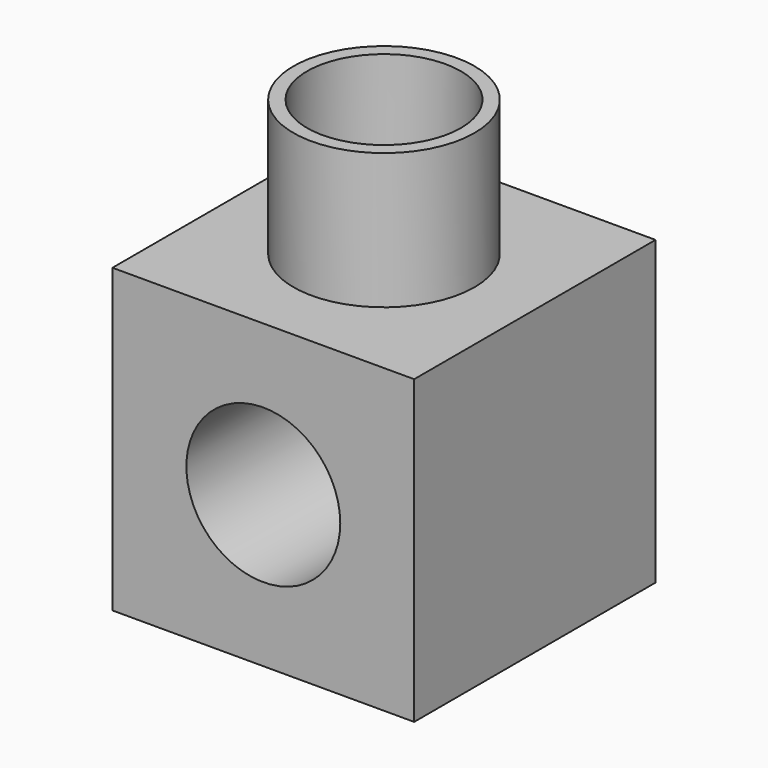
from build123d import *

# Parameters (mm, degrees)
F0_W     = 100
F0_H     = 100
F0_R     = 25.5
F1_DEPTH = 50
F2_R     = 30
F2_R_2   = 25.5
F3_DEPTH = 45


with BuildPart() as f1:
    # F0 (on Front) → F1 (new body, symmetric)
    with BuildSketch(Plane.XZ):
        Rectangle(F0_W, F0_H)
        Circle(F0_R, mode=Mode.SUBTRACT)
    extrude(amount=F1_DEPTH, both=True)

    # F2 (on face) → F3 (join)
    with BuildSketch(Plane.XY.offset(50)):
        Circle(F2_R)
        Circle(F2_R_2, mode=Mode.SUBTRACT)
    extrude(amount=F3_DEPTH)


solid = f1.part
